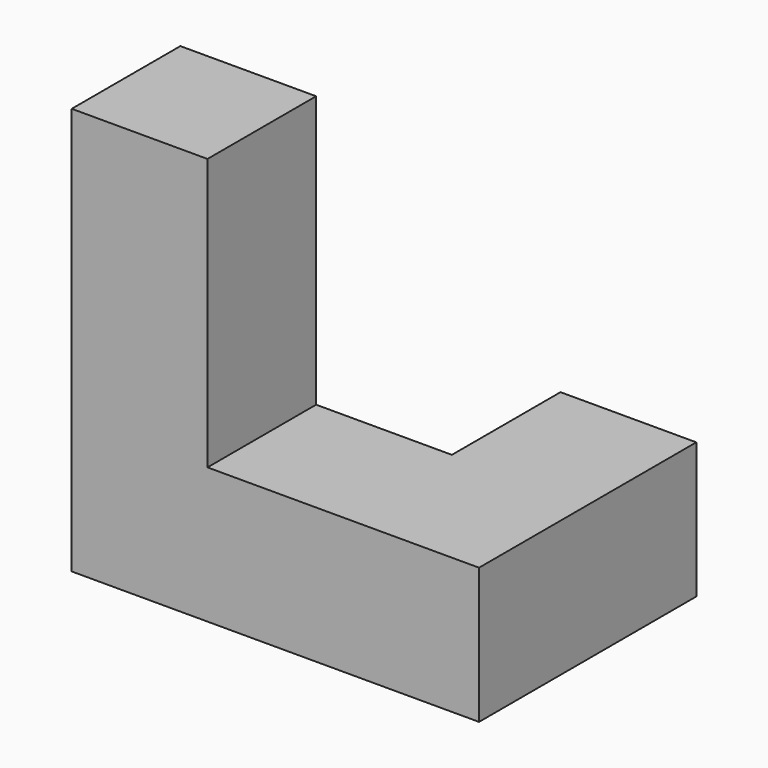
from build123d import *

# Parameters (mm, degrees)
F0_W     = 10
F0_H     = 10
F1_DEPTH = 30
F2_W     = 10
F2_H     = 10
F3_DEPTH = 20
F4_W     = 10
F4_H     = 10
F5_DEPTH = 10


with BuildPart() as f1:
    # F0 (on Top) → F1 (new body)
    with BuildSketch(Plane.XY):
        with Locations((5, 5)):
            Rectangle(F0_W, F0_H)
    extrude(amount=F1_DEPTH)

    # F2 (on face) → F3 (join)
    with BuildSketch(Plane.YZ.offset(10)):
        with Locations((5, 5)):
            Rectangle(F2_W, F2_H)
    extrude(amount=F3_DEPTH)

    # F4 (on face) → F5 (join)
    with BuildSketch(Plane(origin=(0, 10, 0), x_dir=(-1, 0, 0), z_dir=(0, 1, 0))):
        with Locations((-25, 5)):
            Rectangle(F4_W, F4_H)
    extrude(amount=F5_DEPTH)


solid = f1.part
